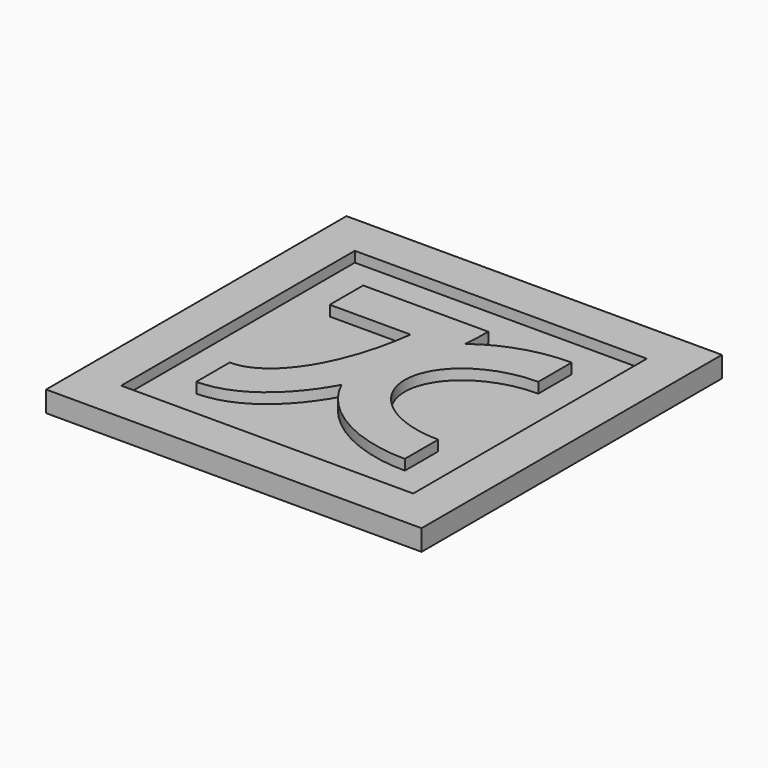
from build123d import *

# Parameters (mm, degrees)
F0_W     = 180
F0_H     = 180
F1_DEPTH = 5
F3_DEPTH = 5


with BuildPart() as f1:
    # F0 (on Top) → F1 (new body)
    with BuildSketch(Plane.XY):
        Rectangle(F0_W, F0_H)
    extrude(amount=F1_DEPTH)

    # F2 (on face) → F3 (join)
    with BuildSketch(Plane.XY.offset(5)):
        with BuildLine():
            add(Edge.make_bspline(
                [(-84.6410161514, 90), (-90, 71.4359353945), (-90, 50)],
                knots=[4.1887902048, 4.1887902048, 4.1887902048, 4.7123889804, 4.7123889804, 4.7123889804], degree=2, weights=[1, 0.9659258263, 1]))
            Line((-84.6410161514, 90), (-90, 90))
            Line((-90, 90), (-90, 50))
        make_face()
        with BuildLine():
            add(Edge.make_bspline(
                [(-11.2701665379, 70), (-12.6331056415, 80.5572809), (-15.3589838486, 90)],
                knots=[1.8234765819, 1.8234765819, 1.8234765819, 2.0943951024, 2.0943951024, 2.0943951024], degree=2, weights=[1, 0.9908394147, 1]))
            Line((-15.3589838486, 90), (-84.6410161514, 90))
            add(Edge.make_bspline(
                [(-84.6410161514, 90), (-90, 71.4359353945), (-90, 50)],
                knots=[4.1887902048, 4.1887902048, 4.1887902048, 4.7123889804, 4.7123889804, 4.7123889804], degree=2, weights=[1, 0.9659258263, 1]))
            add(Edge.make_bspline(
                [(-90, 50), (-90, 3.8119784648), (-70, -19.2820323028)],
                knots=[4.7123889804, 4.7123889804, 4.7123889804, 5.7595865316, 5.7595865316, 5.7595865316], degree=2, weights=[1, 0.8660254038, 1]))
            Line((-70, -19.2820323028), (-70, 70))
            Line((-70, 70), (-11.2701665379, 70))
        make_face()
        with BuildLine():
            add(Edge.make_bspline(
                [(8.7877538268, 70), (7.5221386644, 80.333704529), (4.9909083395, 90)],
                knots=[4.9137469012, 4.9137469012, 4.9137469012, 5.1239058265, 5.1239058265, 5.1239058265], degree=2, weights=[1, 0.9944842314, 1]))
            Line((4.9909083395, 90), (-15.3589838486, 90))
            add(Edge.make_bspline(
                [(-11.2701665379, 70), (-12.6331056415, 80.5572809), (-15.3589838486, 90)],
                knots=[1.8234765819, 1.8234765819, 1.8234765819, 2.0943951024, 2.0943951024, 2.0943951024], degree=2, weights=[1, 0.9908394147, 1]))
            Line((-11.2701665379, 70), (8.7877538268, 70))
        make_face()
        with BuildLine():
            Line((90, 37.267799625), (90, 90))
            Line((90, 90), (4.9909083395, 90))
            add(Edge.make_bspline(
                [(8.7877538268, 70), (7.5221386644, 80.333704529), (4.9909083395, 90)],
                knots=[4.9137469012, 4.9137469012, 4.9137469012, 5.1239058265, 5.1239058265, 5.1239058265], degree=2, weights=[1, 0.9944842314, 1]))
            Line((8.7877538268, 70), (70, 70))
            Line((70, 70), (70, 47.1404520791))
            add(Edge.make_bspline(
                [(90, 37.267799625), (81.1696311978, 43.8495679277), (70, 47.1404520791)],
                knots=[3.9826613242, 3.9826613242, 3.9826613242, 4.3725520709, 4.3725520709, 4.3725520709], degree=2, weights=[1, 0.9810582529, 1]))
        make_face()
        with BuildLine():
            Line((90, -2.944e-07), (90, 37.267799625))
            add(Edge.make_bspline(
                [(90, 37.267799625), (81.1696311978, 43.8495679277), (70, 47.1404520791)],
                knots=[3.9826613242, 3.9826613242, 3.9826613242, 4.3725520709, 4.3725520709, 4.3725520709], degree=2, weights=[1, 0.9810582529, 1]))
            Line((70, 47.1404520791), (70, 25.9807621135))
            add(Edge.make_bspline(
                [(90, -2.944e-07), (90.0000002266, 17.3205079775), (70, 25.9807621135)],
                knots=[3.1415926438, 3.1415926438, 3.1415926438, 4.1887902048, 4.1887902048, 4.1887902048], degree=2, weights=[1, 0.8660254013, 1]))
        make_face()
        with BuildLine():
            add(Edge.make_bspline(
                [(70, -25.9807621135), (89.9999997734, -17.3205081738), (90, -2.944e-07)],
                knots=[2.0943951024, 2.0943951024, 2.0943951024, 3.1415926438, 3.1415926438, 3.1415926438], degree=2, weights=[1, 0.8660254062, 1]))
            add(Edge.make_bspline(
                [(90, -2.944e-07), (90.0000002266, 17.3205079775), (70, 25.9807621135)],
                knots=[3.1415926438, 3.1415926438, 3.1415926438, 4.1887902048, 4.1887902048, 4.1887902048], degree=2, weights=[1, 0.8660254013, 1]))
            Line((70, 25.9807621135), (70, -25.9807621135))
        make_face()
        with BuildLine():
            Line((90, -37.267799625), (90, -2.944e-07))
            add(Edge.make_bspline(
                [(70, -25.9807621135), (89.9999997734, -17.3205081738), (90, -2.944e-07)],
                knots=[2.0943951024, 2.0943951024, 2.0943951024, 3.1415926438, 3.1415926438, 3.1415926438], degree=2, weights=[1, 0.8660254062, 1]))
            Line((70, -25.9807621135), (70, -47.1404520791))
            add(Edge.make_bspline(
                [(70, -47.1404520791), (81.1696311978, -43.8495679277), (90, -37.267799625)],
                knots=[1.9106332362, 1.9106332362, 1.9106332362, 2.300523983, 2.300523983, 2.300523983], degree=2, weights=[1, 0.9810582529, 1]))
        make_face()
        with BuildLine():
            Line((-90, 50), (-90, -24.53559925))
            add(Edge.make_bspline(
                [(-90, -24.53559925), (-81.1696311978, -37.6991358555), (-70, -44.2809041582)],
                knots=[2.4118649974, 2.4118649974, 2.4118649974, 2.8017557441, 2.8017557441, 2.8017557441], degree=2, weights=[1, 0.9810582529, 1]))
            Line((-70, -44.2809041582), (-70, -19.2820323028))
            add(Edge.make_bspline(
                [(-90, 50), (-90, 3.8119784648), (-70, -19.2820323028)],
                knots=[4.7123889804, 4.7123889804, 4.7123889804, 5.7595865316, 5.7595865316, 5.7595865316], degree=2, weights=[1, 0.8660254038, 1]))
        make_face()
        with BuildLine():
            add(Edge.make_bspline(
                [(9.4810733311, 36.876450834), (10, 43.4097265114), (10, 50)],
                knots=[4.5807738328, 4.5807738328, 4.5807738328, 4.7123889804, 4.7123889804, 4.7123889804], degree=2, weights=[1, 0.9978354629, 1]))
            Line((10, 50), (0, 50))
            Line((0, 50), (0, 30))
            Line((0, 30), (-11.2701665379, 30))
            add(Edge.make_bspline(
                [(-50, -30), (-19.0161332303, -30), (-11.2701665379, 30)],
                knots=[0, 0, 0, 1.3181160717, 1.3181160717, 1.3181160717], degree=2, weights=[1, 0.790569415, 1]))
            Line((-50, -30), (-50, -50))
            add(Edge.make_bspline(
                [(-50, -50), (-23.7994473959, -50), (-5.9908211975, -17.9704221034)],
                knots=[3.1415926536, 3.1415926536, 3.1415926536, 3.9650296719, 3.9650296719, 3.9650296719], degree=2, weights=[1, 0.9164344551, 1]))
            add(Edge.make_bspline(
                [(9.4810733311, 36.876450834), (-20.6970548218, 13.8493839138), (-5.9908211975, -17.9704221034)],
                knots=[5.4537813034, 5.4537813034, 5.4537813034, 6.6508192072, 6.6508192072, 6.6508192072], degree=2, weights=[1, 0.8261709721, 1]))
        make_face()
        with BuildLine():
            Line((0, 50), (-10, 50))
            add(Edge.make_bspline(
                [(-11.2701665379, 30), (-10, 39.8386676966), (-10, 50)],
                knots=[1.3181160717, 1.3181160717, 1.3181160717, 1.5707963268, 1.5707963268, 1.5707963268], degree=2, weights=[1, 0.9920296963, 1]))
            Line((-11.2701665379, 30), (0, 30))
            Line((0, 30), (0, 50))
        make_face()
        with BuildLine():
            add(Edge.make_bspline(
                [(-11.2701665379, 30), (-10, 39.8386676966), (-10, 50)],
                knots=[1.3181160717, 1.3181160717, 1.3181160717, 1.5707963268, 1.5707963268, 1.5707963268], degree=2, weights=[1, 0.9920296963, 1]))
            Line((-10, 50), (-50, 50))
            Line((-50, 50), (-50, 30))
            Line((-50, 30), (-11.2701665379, 30))
        make_face()
        with BuildLine():
            Line((50, 30), (50, 50))
            add(Edge.make_bspline(
                [(50, 50), (26.6801438826, 50), (9.4810733311, 36.876450834)],
                knots=[4.7123889804, 4.7123889804, 4.7123889804, 5.4537813034, 5.4537813034, 5.4537813034], degree=2, weights=[1, 0.932075377, 1]))
            add(Edge.make_bspline(
                [(-5.9908211975, -17.9704221034), (6.9772353101, 5.3531836285), (9.4810733311, 36.876450834)],
                knots=[3.9650296719, 3.9650296719, 3.9650296719, 4.5807738328, 4.5807738328, 4.5807738328], degree=2, weights=[1, 0.9529805535, 1]))
            add(Edge.make_bspline(
                [(-5.9908211975, -17.9704221034), (8.8123631833, -50), (50, -50)],
                knots=[0.3676339, 0.3676339, 0.3676339, 1.5707963268, 1.5707963268, 1.5707963268], degree=2, weights=[1, 0.8244417633, 1]))
            Line((50, -50), (50, -30))
            add(Edge.make_bspline(
                [(10, 0), (10, -30), (50, -30)],
                knots=[0, 0, 0, 1.5707963268, 1.5707963268, 1.5707963268], degree=2, weights=[1, 0.7071067812, 1]))
            add(Edge.make_bspline(
                [(50, 30), (10, 30), (10, 0)],
                knots=[4.7123889804, 4.7123889804, 4.7123889804, 6.2831853072, 6.2831853072, 6.2831853072], degree=2, weights=[1, 0.7071067812, 1]))
        make_face()
        with BuildLine():
            add(Edge.make_bspline(
                [(-5.9908211975, -17.9704221034), (6.9772353101, 5.3531836285), (9.4810733311, 36.876450834)],
                knots=[3.9650296719, 3.9650296719, 3.9650296719, 4.5807738328, 4.5807738328, 4.5807738328], degree=2, weights=[1, 0.9529805535, 1]))
            add(Edge.make_bspline(
                [(9.4810733311, 36.876450834), (-20.6970548218, 13.8493839138), (-5.9908211975, -17.9704221034)],
                knots=[5.4537813034, 5.4537813034, 5.4537813034, 6.6508192072, 6.6508192072, 6.6508192072], degree=2, weights=[1, 0.8261709721, 1]))
        make_face()
        with BuildLine():
            Line((90, -90), (90, -37.267799625))
            add(Edge.make_bspline(
                [(70, -47.1404520791), (81.1696311978, -43.8495679277), (90, -37.267799625)],
                knots=[1.9106332362, 1.9106332362, 1.9106332362, 2.300523983, 2.300523983, 2.300523983], degree=2, weights=[1, 0.9810582529, 1]))
            Line((70, -47.1404520791), (70, -70))
            Line((70, -70), (-70, -70))
            Line((-70, -70), (-70, -44.2809041582))
            add(Edge.make_bspline(
                [(-90, -24.53559925), (-81.1696311978, -37.6991358555), (-70, -44.2809041582)],
                knots=[2.4118649974, 2.4118649974, 2.4118649974, 2.8017557441, 2.8017557441, 2.8017557441], degree=2, weights=[1, 0.9810582529, 1]))
            Line((-90, -24.53559925), (-90, -90))
            Line((-90, -90), (90, -90))
        make_face()
    extrude(amount=F3_DEPTH)


solid = f1.part
